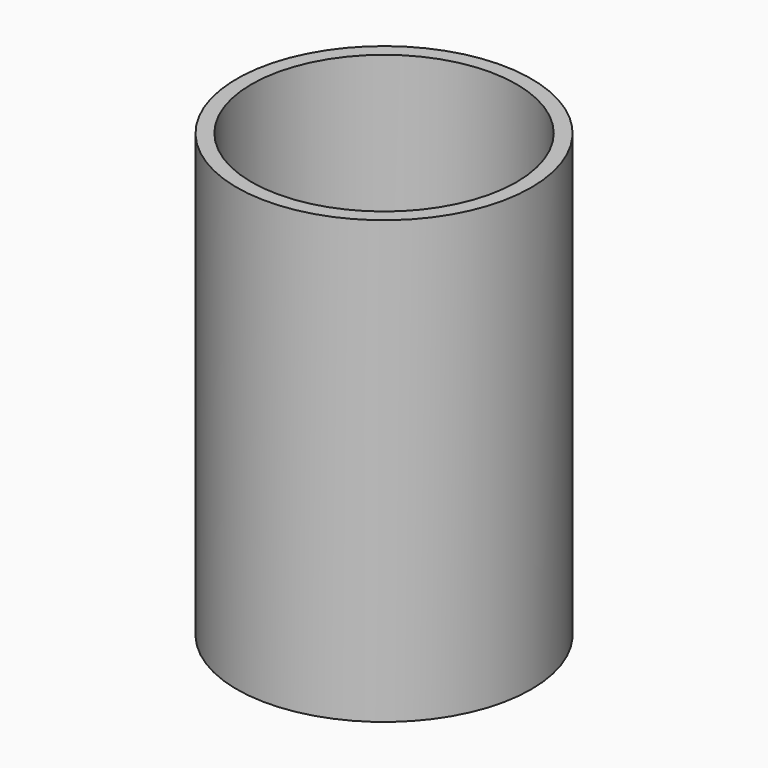
from build123d import *

# Parameters (mm, degrees)
F0_R     = 25.4
F1_DEPTH = 38.1
F2_T     = -2.54


with BuildPart() as f1:
    # F0 (on Top) → F1 (new body, symmetric)
    with BuildSketch(Plane.XY):
        Circle(F0_R)
    extrude(amount=F1_DEPTH, both=True)

    # F2
    f2_openings = [f1.faces().sort_by_distance(p)[0] for p in [
        (0, 0, 38.1),
        (0, 0, -38.1),
    ]]
    offset(amount=F2_T, openings=f2_openings)


solid = f1.part
